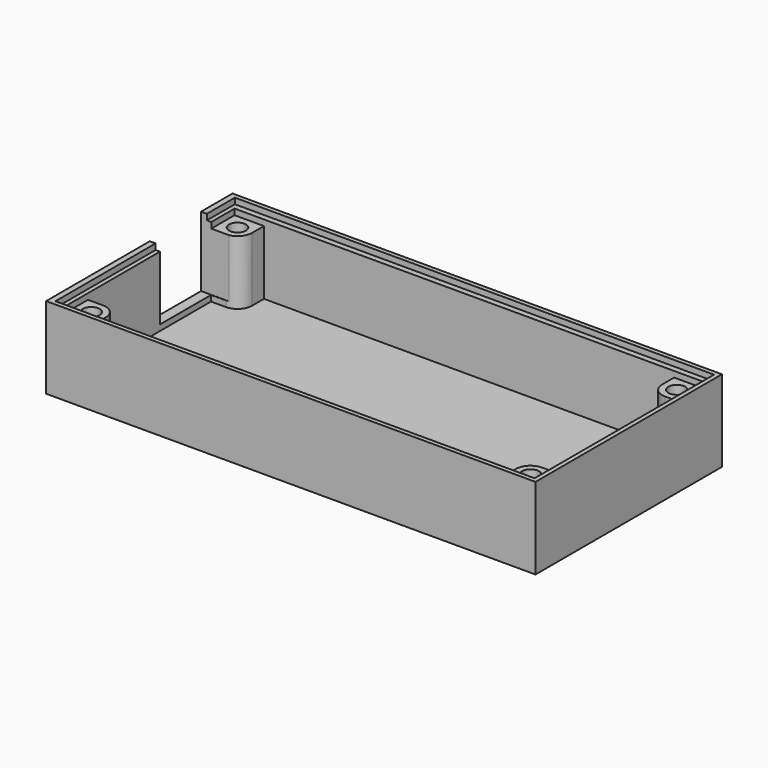
from build123d import *

# Parameters (mm, degrees)
F0_W     = 84
F0_H     = 40
F0_R     = 1.45
F1_DEPTH = 1
F2_DEPTH = 12
F3_DEPTH = 14
F4_W     = 11
F4_H     = 12
F5_DEPTH = 25
F7_DEPTH = 1


with BuildPart() as f1:
    # F0 (on Top) → F1 (new body)
    with BuildSketch(Plane.XY):
        with Locations((-0.4375013113, -5.1794923829)):
            Rectangle(F0_W, F0_H)
        Polygon((-40.6875013113, 8.0205076171), (-40.6875013113, 13.0705076171), (-35.6375013113, 13.0705076171), (34.7624986887, 13.0705076171), (39.8124986887, 13.0705076171), (39.8124986887, 8.0205076171), (39.8124986887, -18.3794923829), (39.8124986887, -23.4294923829), (34.7624986887, -23.4294923829), (-35.6375013113, -23.4294923829), (-40.6875013113, -23.4294923829), (-40.6875013113, -18.3794923829), align=None, mode=Mode.SUBTRACT)
        with BuildLine():
            Line((34.7624986887, 13.0705076171), (-35.6375013113, 13.0705076171))
            Line((-35.6375013113, 13.0705076171), (-35.6375013113, 10.5205076171))
            ThreePointArc((-35.6375013113, 10.5205076171), (-36.3697343583, 8.7527406642), (-38.1375013113, 8.0205076171))
            Line((-38.1375013113, 8.0205076171), (-40.6875013113, 8.0205076171))
            Line((-40.6875013113, 8.0205076171), (-40.6875013113, -18.3794923829))
            Line((-40.6875013113, -18.3794923829), (-38.1375013113, -18.3794923829))
            ThreePointArc((-38.1375013113, -18.3794923829), (-36.3697343583, -19.1117254299), (-35.6375013113, -20.8794923829))
            Line((-35.6375013113, -20.8794923829), (-35.6375013113, -23.4294923829))
            Line((-35.6375013113, -23.4294923829), (34.7624986887, -23.4294923829))
            Line((34.7624986887, -23.4294923829), (34.7624986887, -20.8794923829))
            ThreePointArc((34.7624986887, -20.8794923829), (35.4947317357, -19.1117254299), (37.2624986887, -18.3794923829))
            Line((37.2624986887, -18.3794923829), (39.8124986887, -18.3794923829))
            Line((39.8124986887, -18.3794923829), (39.8124986887, 8.0205076171))
            Line((39.8124986887, 8.0205076171), (37.2624986887, 8.0205076171))
            ThreePointArc((37.2624986887, 8.0205076171), (35.4947317357, 8.7527406642), (34.7624986887, 10.5205076171))
            Line((34.7624986887, 10.5205076171), (34.7624986887, 13.0705076171))
        make_face()
        with BuildLine():
            Line((39.8124986887, -23.4294923829), (39.8124986887, -18.3794923829))
            Line((39.8124986887, -18.3794923829), (37.2624986887, -18.3794923829))
            ThreePointArc((37.2624986887, -18.3794923829), (35.4947317357, -19.1117254299), (34.7624986887, -20.8794923829))
            Line((34.7624986887, -20.8794923829), (34.7624986887, -23.4294923829))
            Line((34.7624986887, -23.4294923829), (39.8124986887, -23.4294923829))
        make_face()
        with Locations((37.2624986887, -20.8794923829)):
            Circle(F0_R, mode=Mode.SUBTRACT)
        with BuildLine():
            Line((39.8124986887, 13.0705076171), (34.7624986887, 13.0705076171))
            Line((34.7624986887, 13.0705076171), (34.7624986887, 10.5205076171))
            ThreePointArc((34.7624986887, 10.5205076171), (35.4947317357, 8.7527406642), (37.2624986887, 8.0205076171))
            Line((37.2624986887, 8.0205076171), (39.8124986887, 8.0205076171))
            Line((39.8124986887, 8.0205076171), (39.8124986887, 13.0705076171))
        make_face()
        with Locations((37.2624986887, 10.5205076171)):
            Circle(F0_R, mode=Mode.SUBTRACT)
        with BuildLine():
            Line((-38.1375013113, -18.3794923829), (-40.6875013113, -18.3794923829))
            Line((-40.6875013113, -18.3794923829), (-40.6875013113, -23.4294923829))
            Line((-40.6875013113, -23.4294923829), (-35.6375013113, -23.4294923829))
            Line((-35.6375013113, -23.4294923829), (-35.6375013113, -20.8794923829))
            ThreePointArc((-35.6375013113, -20.8794923829), (-36.3697343583, -19.1117254299), (-38.1375013113, -18.3794923829))
        make_face()
        with Locations((-38.1375013113, -20.8794923829)):
            Circle(F0_R, mode=Mode.SUBTRACT)
        with BuildLine():
            Line((-35.6375013113, 13.0705076171), (-40.6875013113, 13.0705076171))
            Line((-40.6875013113, 13.0705076171), (-40.6875013113, 8.0205076171))
            Line((-40.6875013113, 8.0205076171), (-38.1375013113, 8.0205076171))
            ThreePointArc((-38.1375013113, 8.0205076171), (-36.3697343583, 8.7527406642), (-35.6375013113, 10.5205076171))
            Line((-35.6375013113, 10.5205076171), (-35.6375013113, 13.0705076171))
        make_face()
        with Locations((-38.1375013113, 10.5205076171)):
            Circle(F0_R, mode=Mode.SUBTRACT)
        with Locations((37.2624986887, 10.5205076171)):
            Circle(F0_R)
        with Locations((-38.1375013113, 10.5205076171)):
            Circle(F0_R)
        with Locations((37.2624986887, -20.8794923829)):
            Circle(F0_R)
        with Locations((-38.1375013113, -20.8794923829)):
            Circle(F0_R)
    extrude(amount=F1_DEPTH)

    # F0 (on Top) → F2 (join)
    with BuildSketch(Plane.XY):
        with BuildLine():
            Line((-35.6375013113, 13.0705076171), (-40.6875013113, 13.0705076171))
            Line((-40.6875013113, 13.0705076171), (-40.6875013113, 8.0205076171))
            Line((-40.6875013113, 8.0205076171), (-38.1375013113, 8.0205076171))
            ThreePointArc((-38.1375013113, 8.0205076171), (-36.3697343583, 8.7527406642), (-35.6375013113, 10.5205076171))
            Line((-35.6375013113, 10.5205076171), (-35.6375013113, 13.0705076171))
        make_face()
        with Locations((-38.1375013113, 10.5205076171)):
            Circle(F0_R, mode=Mode.SUBTRACT)
        with BuildLine():
            Line((39.8124986887, 13.0705076171), (34.7624986887, 13.0705076171))
            Line((34.7624986887, 13.0705076171), (34.7624986887, 10.5205076171))
            ThreePointArc((34.7624986887, 10.5205076171), (35.4947317357, 8.7527406642), (37.2624986887, 8.0205076171))
            Line((37.2624986887, 8.0205076171), (39.8124986887, 8.0205076171))
            Line((39.8124986887, 8.0205076171), (39.8124986887, 13.0705076171))
        make_face()
        with Locations((37.2624986887, 10.5205076171)):
            Circle(F0_R, mode=Mode.SUBTRACT)
        with BuildLine():
            Line((39.8124986887, -23.4294923829), (39.8124986887, -18.3794923829))
            Line((39.8124986887, -18.3794923829), (37.2624986887, -18.3794923829))
            ThreePointArc((37.2624986887, -18.3794923829), (35.4947317357, -19.1117254299), (34.7624986887, -20.8794923829))
            Line((34.7624986887, -20.8794923829), (34.7624986887, -23.4294923829))
            Line((34.7624986887, -23.4294923829), (39.8124986887, -23.4294923829))
        make_face()
        with Locations((37.2624986887, -20.8794923829)):
            Circle(F0_R, mode=Mode.SUBTRACT)
        with BuildLine():
            Line((-38.1375013113, -18.3794923829), (-40.6875013113, -18.3794923829))
            Line((-40.6875013113, -18.3794923829), (-40.6875013113, -23.4294923829))
            Line((-40.6875013113, -23.4294923829), (-35.6375013113, -23.4294923829))
            Line((-35.6375013113, -23.4294923829), (-35.6375013113, -20.8794923829))
            ThreePointArc((-35.6375013113, -20.8794923829), (-36.3697343583, -19.1117254299), (-38.1375013113, -18.3794923829))
        make_face()
        with Locations((-38.1375013113, -20.8794923829)):
            Circle(F0_R, mode=Mode.SUBTRACT)
    extrude(amount=F2_DEPTH)

    # F0 (on Top) → F3 (join)
    with BuildSketch(Plane.XY):
        with Locations((-0.4375013113, -5.1794923829)):
            Rectangle(F0_W, F0_H)
        Polygon((-40.6875013113, 8.0205076171), (-40.6875013113, 13.0705076171), (-35.6375013113, 13.0705076171), (34.7624986887, 13.0705076171), (39.8124986887, 13.0705076171), (39.8124986887, 8.0205076171), (39.8124986887, -18.3794923829), (39.8124986887, -23.4294923829), (34.7624986887, -23.4294923829), (-35.6375013113, -23.4294923829), (-40.6875013113, -23.4294923829), (-40.6875013113, -18.3794923829), align=None, mode=Mode.SUBTRACT)
    extrude(amount=F3_DEPTH)

    # F4 (on face) → F5 (cut)
    with BuildSketch(Plane(origin=(-42.4375013113, 0, 0), x_dir=(0, -1, 0), z_dir=(-1, 0, 0))):
        with Locations((-2.5705076171, 8)):
            Rectangle(F4_W, F4_H)
    extrude(amount=-F5_DEPTH, mode=Mode.SUBTRACT)

    # F6 (on face) → F7 (cut)
    with BuildSketch(Plane.XY.offset(14)):
        Polygon((40.8124986887, 14.0705076171), (-41.4375013113, 14.0705076171), (-41.4375013113, 8.0705076171), (-40.6875013113, 8.0705076171), (-40.6875013113, 13.0705076171), (39.8124986887, 13.0705076171), (39.8124986887, -23.4294923829), (-40.6875013113, -23.4294923829), (-40.6875013113, -2.9294923829), (-41.4375013113, -2.9294923829), (-41.4375013113, -24.4294923829), (40.8124986887, -24.4294923829), align=None)
    extrude(amount=-F7_DEPTH, mode=Mode.SUBTRACT)


solid = f1.part
